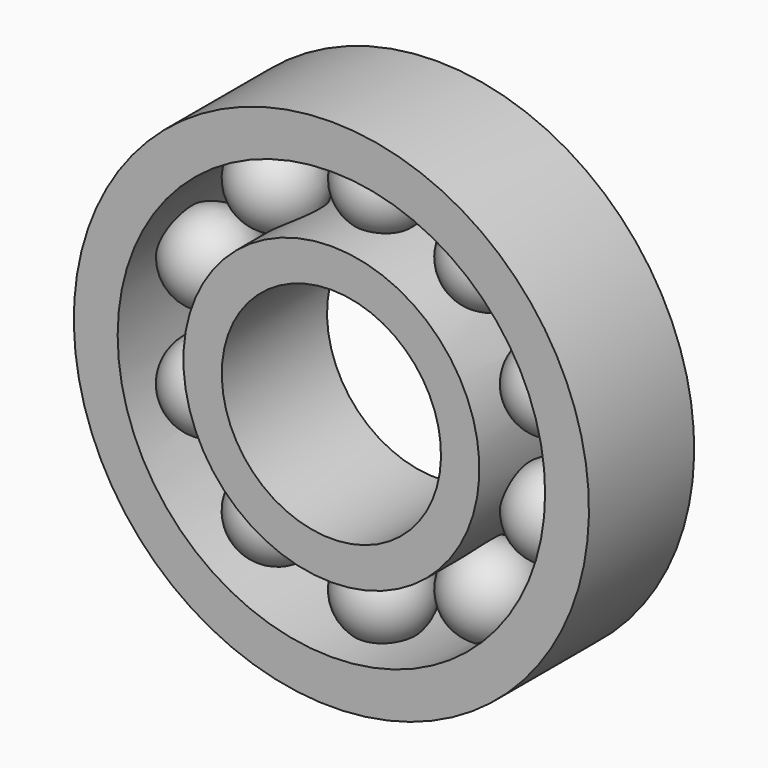
from build123d import *

# Parameters (mm, degrees)
F0_W     = 12
F0_H     = 3.5
F0_H_2   = 4
F4_COUNT = 10


with BuildPart() as f1:
    # F0 (on Right) → F1 (revolve)
    with BuildSketch(Plane.YZ):
        with Locations((0, 11.75)):
            Rectangle(F0_W, F0_H)
    revolve(axis=Axis((0, -5.5610528216, 0), (0, 1, 0)))



with BuildPart() as f1b:
    # F0 (on Right) → F1, piece 2 (revolve)
    with BuildSketch(Plane.YZ):
        with Locations((0, 21.5)):
            Rectangle(F0_W, F0_H_2)
    revolve(axis=Axis((0, -5.5610528216, 0), (0, 1, 0)))


with BuildPart() as f1_1:
    add(f1.part)

    add(f1b.part)  # F3 merges F1b
    # F2 (on Front) → F3 (revolve)
    with BuildSketch(Plane.XZ):
        with BuildLine():
            Line((0, 20.5), (0, 12.5))
            ThreePointArc((0, 12.5), (4, 16.5), (0, 20.5))
        make_face()
    revolve(axis=Axis((0, 0, 15.7631235197), (0, 0, 1)))

    # F4: F1 ×10 about axis
    f4_axis = Axis((0, -6, 0), (0, 1, 0))


with BuildPart() as f1_2:
    add(f1_1.part)
    for i in range(1, F4_COUNT):
        add(f1_1.part.rotate(f4_axis, i * 360 / F4_COUNT))


solid = f1_2.part
